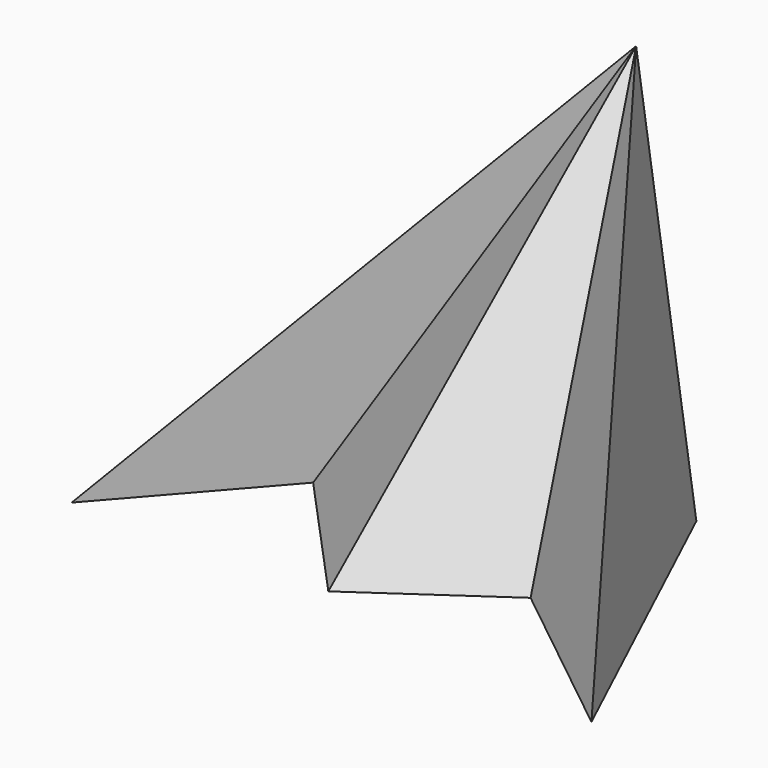
from build123d import *


with BuildPart() as f3:
    # F0 (on Top) → F3 section 0
    with BuildSketch(Plane.XY, mode=Mode.PRIVATE) as f3_s0:
        Polygon((-8.343563, 50.560787), (-47.550168, 5.081126), (-44.413641, -39.875783), (-11.480091, -2.237441), (20.930702, -37.784763), (54.909762, -14.2608), (98.821156, -49.285367), (60.137309, 33.309881), (28.249269, 0), align=None)
    loft([f3_s0.sketch, Vertex(39.539993, 39.402269, 100)])


solid = f3.part
